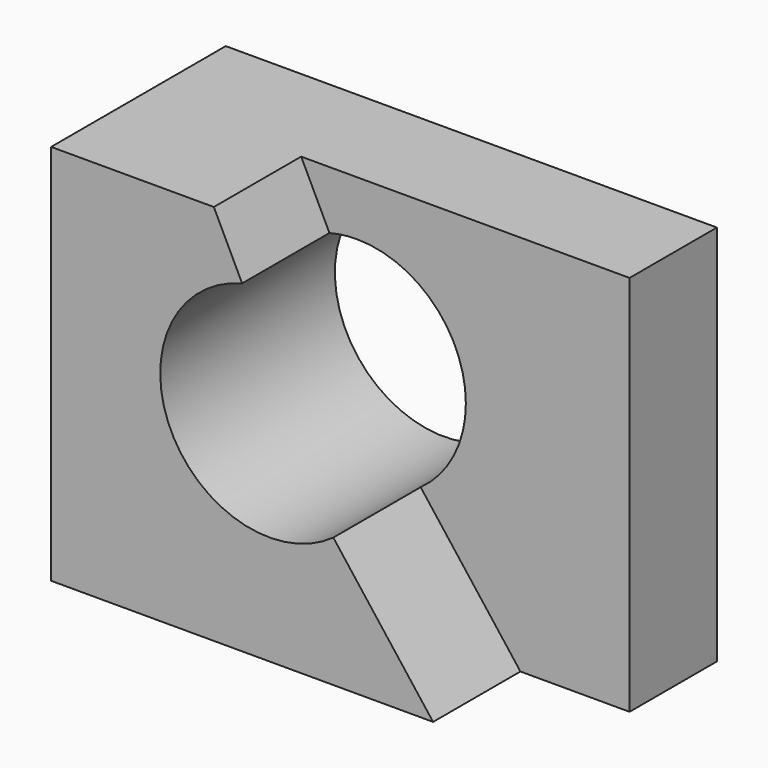
from build123d import *

# Parameters (mm, degrees)
F0_W     = 57.15
F0_H     = 44.45
F1_DEPTH = 25.4
F3_DEPTH = 25.401
F5_DEPTH = 12.7


with BuildPart() as f1:
    # F0 (on Front) → F1 (new body)
    with BuildSketch(Plane.XZ):
        with Locations((28.575, 22.225)):
            Rectangle(F0_W, F0_H)
    extrude(amount=F1_DEPTH)

    # F2 (on face) → F3 (cut, through all)
    with BuildSketch(Plane.XZ.offset(25.4)):
        with BuildLine():
            ThreePointArc((25.4, 38.1), (16.4197438789, 16.4197438789), (38.1, 25.4))
            ThreePointArc((38.1, 25.4), (34.3802561211, 34.3802561211), (25.4, 38.1))
        make_face()
    extrude(amount=-F3_DEPTH, mode=Mode.SUBTRACT)

    # F4 (on face) → F5 (cut)
    with BuildSketch(Plane.XZ.offset(25.4)):
        with BuildLine():
            Line((57.15, 44.45), (18.9351793379, 44.45))
            Line((18.9351793379, 44.45), (22.225, 37.6967221242))
            ThreePointArc((22.225, 37.6967221242), (33.1771299333, 35.440231571), (38.1, 25.4))
            ThreePointArc((38.1, 25.4), (36.7085708258, 19.6201880759), (32.8391770271, 15.1068641727))
            Line((32.8391770271, 15.1068641727), (44.45, 0))
            Line((44.45, 0), (57.15, 0))
            Line((57.15, 0), (57.15, 44.45))
        make_face()
    extrude(amount=-F5_DEPTH, mode=Mode.SUBTRACT)


solid = f1.part
